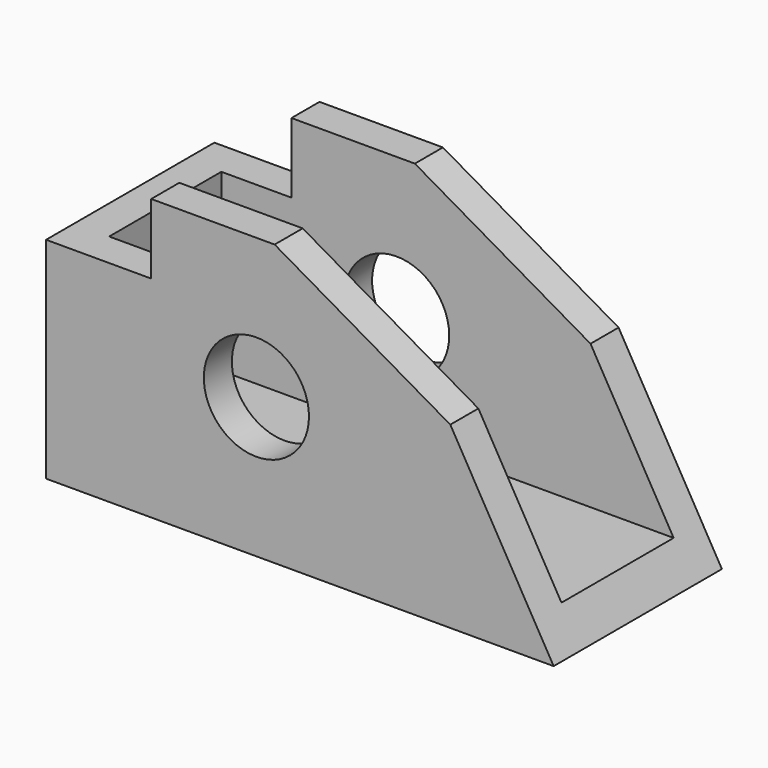
from build123d import *

# Parameters (mm, degrees)
F0_R     = 9.525
F1_DEPTH = 38.1
F2_W     = 6.35
F2_H     = 6.35
F3_DEPTH = 12.7
F4_W     = 94.41996
F4_H     = 25.4
F5_DEPTH = 44.45


with BuildPart() as f1:
    # F0 (on Front) → F1 (new body)
    with BuildSketch(Plane.XZ):
        Polygon((-396.128201, 181.143697), (-415.178201, 181.143697), (-415.178201, 143.043697), (-323.230201, 143.043697), (-341.951291, 175.469577), (-373.776201, 193.843697), (-396.128201, 193.843697), align=None)
        with Locations((-377.078201, 168.443697)):
            Circle(F0_R, mode=Mode.SUBTRACT)
    extrude(amount=F1_DEPTH)

    # F2 (on face) → F3 (join)
    with BuildSketch(Plane.XY.offset(181.143697)):
        with Locations((-405.653201, -9.525)):
            Rectangle(F2_W, F2_H)
    extrude(amount=F3_DEPTH)

    # F4 (on face) → F5 (cut)
    with BuildSketch(Plane.XY.offset(193.843697)):
        with Locations((-361.618221, -19.05)):
            Rectangle(F4_W, F4_H)
    extrude(amount=-F5_DEPTH, mode=Mode.SUBTRACT)


solid = f1.part
